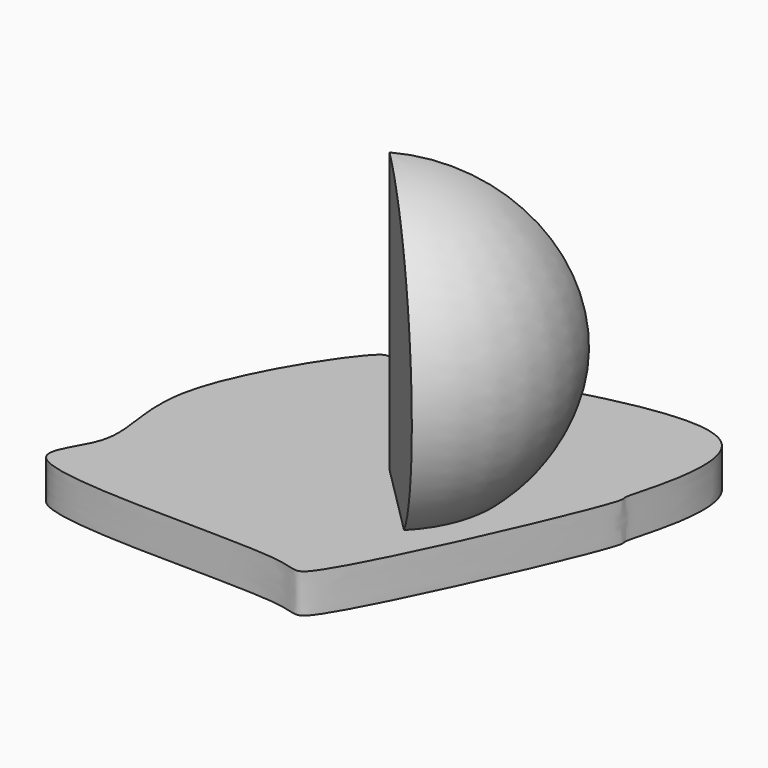
from build123d import *

# Parameters (mm, degrees)
F1_DEPTH      = 5
F3_ANGLE_BACK = 30
F3_ANGLE      = 75


with BuildPart() as f1:
    # F0 (on Top) → F1 (new body)
    with BuildSketch(Plane.XY):
        with BuildLine():
            add(Edge.make_bspline(
                [(-26.5606511384, 0), (-25.1781101462, 7.2237833943), (-16.2145429543, 20.6506777342), (-14.7224711447, 17.4806285238), (31.9644274815, 37.6146889714), (21.5098212853, 9.6258380988), (23.2926234417, 10.0922566261), (7.6121541068, -25.6243791951), (5.0007931071, -20.6743326089), (-35.4700545695, -23.4957126151), (-23.847812163, -12.2184320552), (-27.6365374863, -5.6215113893), (-26.5606511384, 0)],
                knots=[0, 0, 0, 0, 0.1261617069, 0.1664458201, 0.3314942205, 0.4375390091, 0.4637782819, 0.6236730386, 0.676242467, 0.8310236096, 0.9018216032, 1, 1, 1, 1], degree=3))
        make_face()
    extrude(amount=F1_DEPTH)

    # F2 (on Front) → F3 (revolve)
    with BuildSketch(Plane.XZ, mode=Mode.PRIVATE) as f3_sk:
        with BuildLine():
            ThreePointArc((0, 0), (20.2318150575, 20.4375013709), (0, 40.8750027418))
            Line((0, 40.8750027418), (0, 0))
        make_face()
    revolve(f3_sk.sketch.rotate(Axis((0, 0, 20.4375013709), (0, 0, -1)), -F3_ANGLE_BACK), axis=Axis((0, 0, 20.4375013709), (0, 0, -1)), revolution_arc=F3_ANGLE)


solid = f1.part
